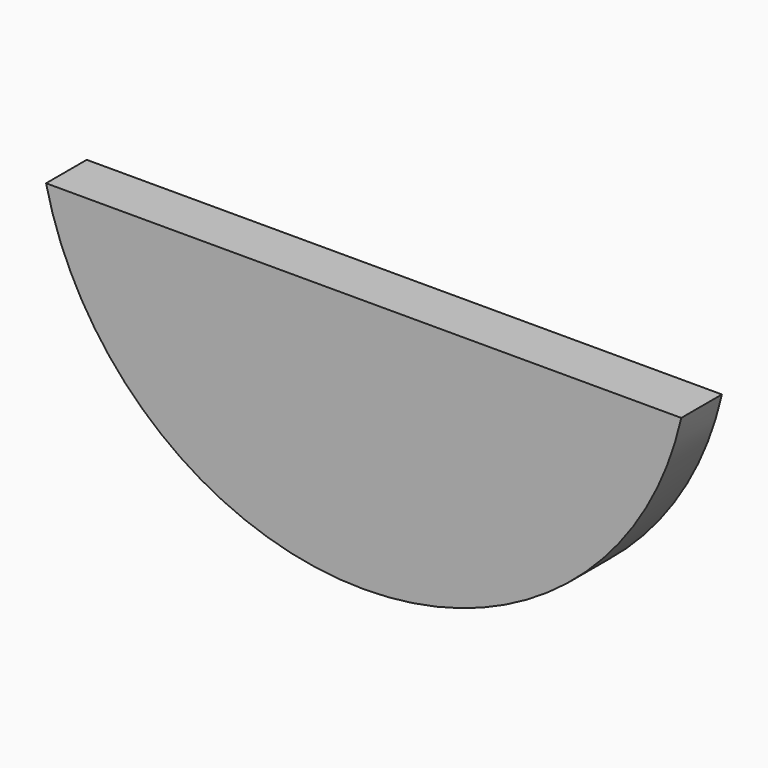
from build123d import *

# Parameters (mm, degrees)
F1_DEPTH = 2


with BuildPart() as f1:
    # F0 (on Front) → F1 (new body)
    with BuildSketch(Plane.XZ):
        with BuildLine():
            Line((1.25, 11.695153), (-23.75, 11.695153))
            Line((-23.75, 11.695153), (-23.743773, 11.667617))
            ThreePointArc((-23.743773, 11.667617), (-11.235884, 1.695161), (1.25, 11.695153))
        make_face()
    extrude(amount=F1_DEPTH)


solid = f1.part
